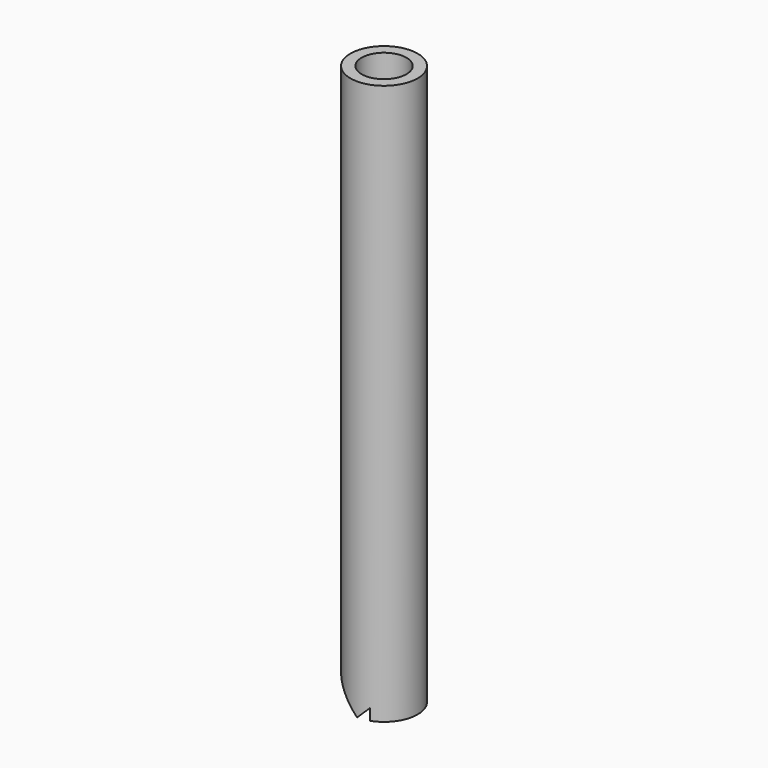
from build123d import *

# Parameters (mm, degrees)
F0_R          = 3
F0_R_2        = 2
F1_DEPTH      = 50
F2_R          = 3
F3_DEPTH      = 25
F3_DEPTH_BACK = 1


with BuildPart() as f1:
    # F0 (on Top) → F1 (new body)
    with BuildSketch(Plane.XY):
        Circle(F0_R)
        Circle(F0_R_2, mode=Mode.SUBTRACT)
    extrude(amount=F1_DEPTH)

    # F2 (on Right) → F3 (cut, two sides)
    with BuildSketch(Plane.YZ) as f3_sk:
        Circle(F2_R)
    extrude(amount=-F3_DEPTH, mode=Mode.SUBTRACT)
    extrude(f3_sk.sketch, amount=F3_DEPTH_BACK, mode=Mode.SUBTRACT)


solid = f1.part
